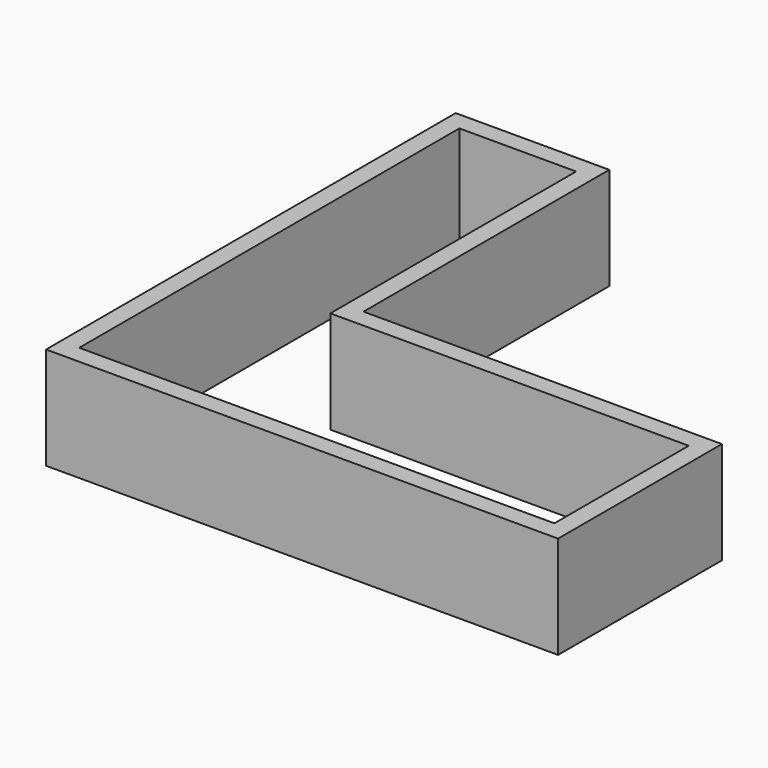
from build123d import *

# Parameters (mm, degrees)
F0_W     = 35
F0_H     = 20
F1_DEPTH = 12
F2_T     = -1.8
F3_DEPTH = 2


with BuildPart() as f1:
    # F0 (on Top) → F1 (new body)
    with BuildSketch(Plane.XY):
        Polygon((-19.0813283622, 35.3948845826), (-34.0813283622, 35.3948845826), (-34.0813283622, -14.6051154174), (-19.0813283622, -14.6051154174), (-19.0813283622, 5.3948845826), align=None)
        with Locations((-1.5813283622, -4.6051154174)):
            Rectangle(F0_W, F0_H)
    extrude(amount=F1_DEPTH)

    # F2
    f2_openings = [f1.faces().sort_by_distance(p)[0] for p in [
        (-14.512363, 3.153505, 12),
    ]]
    offset(amount=F2_T, openings=f2_openings, kind=Kind.INTERSECTION)

    # F0 (on Top) → F3 (cut)
    with BuildSketch(Plane.XY):
        Polygon((-19.0813283622, 35.3948845826), (-34.0813283622, 35.3948845826), (-34.0813283622, -14.6051154174), (-19.0813283622, -14.6051154174), (-19.0813283622, 5.3948845826), align=None)
        with Locations((-1.5813283622, -4.6051154174)):
            Rectangle(F0_W, F0_H)
    extrude(amount=F3_DEPTH, mode=Mode.SUBTRACT)


solid = f1.part
